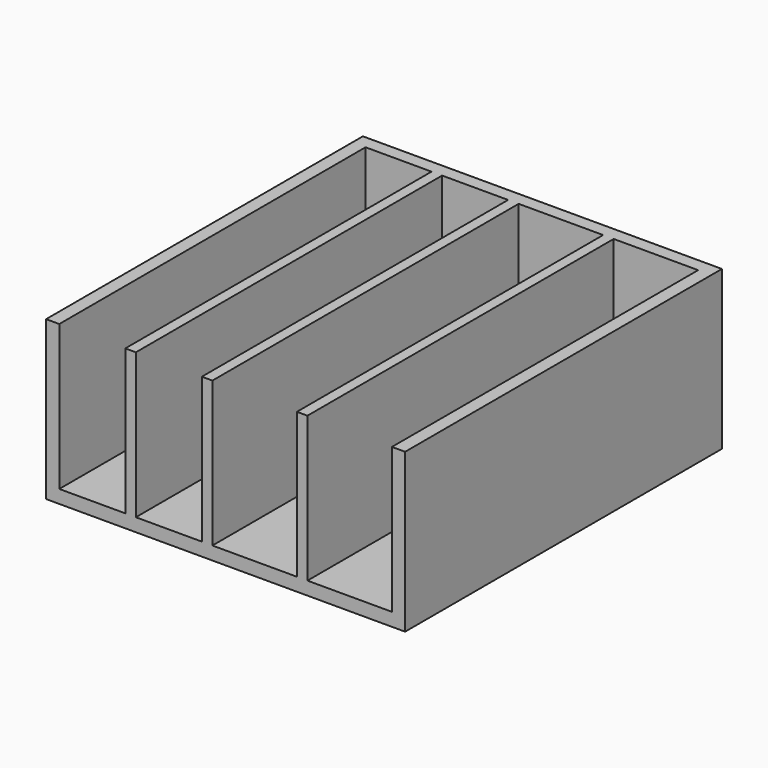
from build123d import *

# Parameters (mm, degrees)
F0_W     = 68
F0_H     = 75
F1_DEPTH = 2.5
F2_W     = 2.5
F2_H     = 2.5
F2_W_2   = 12.5
F2_H_2   = 72.5
F2_W_3   = 2
F2_W_4   = 16
F3_DEPTH = 27.5


with BuildPart() as f1:
    # F0 (on Top) → F1 (new body)
    with BuildSketch(Plane.XY):
        Rectangle(F0_W, F0_H)
    extrude(amount=F1_DEPTH)

    # F2 (on face) → F3 (join)
    with BuildSketch(Plane.XY.offset(2.5)):
        with Locations((-32.75, 36.25)):
            Rectangle(F2_W, F2_H)
        with Locations((-25.25, 36.25)):
            Rectangle(F2_W_2, F2_H)
        with Locations((-32.75, -1.25)):
            Rectangle(F2_W, F2_H_2)
        with Locations((-18, 36.25)):
            Rectangle(F2_W_3, F2_H)
        with Locations((-18, -1.25)):
            Rectangle(F2_W_3, F2_H_2)
        with Locations((-10.75, 36.25)):
            Rectangle(F2_W_2, F2_H)
        with Locations((-3.5, 36.25)):
            Rectangle(F2_W_3, F2_H)
        with Locations((-3.5, -1.25)):
            Rectangle(F2_W_3, F2_H_2)
        with Locations((5.5, 36.25)):
            Rectangle(F2_W_4, F2_H)
        with Locations((14.5, 36.25)):
            Rectangle(F2_W_3, F2_H)
        with Locations((14.5, -1.25)):
            Rectangle(F2_W_3, F2_H_2)
        with Locations((23.5, 36.25)):
            Rectangle(F2_W_4, F2_H)
        with Locations((32.75, 36.25)):
            Rectangle(F2_W, F2_H)
        with Locations((32.75, -1.25)):
            Rectangle(F2_W, F2_H_2)
    extrude(amount=F3_DEPTH)


solid = f1.part
